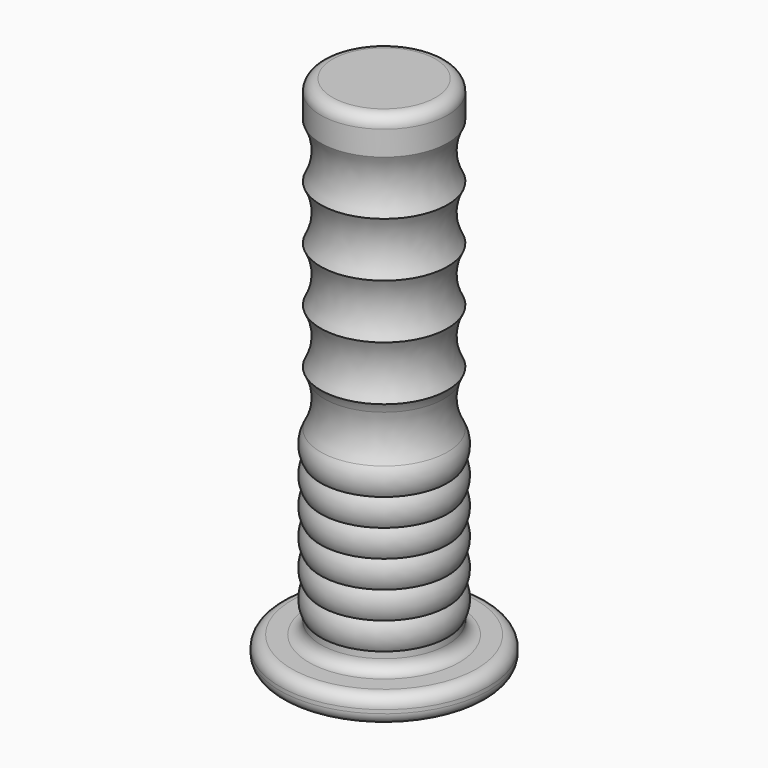
from build123d import *

# Parameters (mm, degrees)
F1_R      = 7
F2_DEPTH  = 25
F3_R      = 1.75
F4_DEPTH  = 25
F9_R      = 7
F9_R_2    = 1.75
F10_DEPTH = 4
F11_R     = 11.5094612718
F11_R_2   = 1.75
F12_DEPTH = 3
F13_R     = 1.3


with BuildPart() as f2:
    # F1 (on Top) → F2 (new body, symmetric)
    with BuildSketch(Plane.XY):
        Circle(F1_R)
    extrude(amount=F2_DEPTH, both=True)

    # F3 (on Top) → F4 (cut, symmetric)
    with BuildSketch(Plane.XY):
        Circle(F3_R)
    extrude(amount=F4_DEPTH, both=True, mode=Mode.SUBTRACT)

    # F5 (on Right) → F6 (revolve, cut)
    with BuildSketch(Plane.YZ):
        with BuildLine():
            ThreePointArc((7, 1), (6.7633442198, 0.5092432024), (6.5696445719, 0))
            Line((6.5696445719, 0), (7, 0))
            Line((7, 0), (7, 1))
        make_face()
        with BuildLine():
            ThreePointArc((7, 25), (6.2463330982, 22), (7, 19))
            Line((7, 19), (7, 25))
        make_face()
        with BuildLine():
            ThreePointArc((7, 19), (6.2463330982, 16), (7, 13))
            Line((7, 13), (7, 19))
        make_face()
        with BuildLine():
            ThreePointArc((7, 13), (6.2463330982, 10), (7, 7))
            Line((7, 7), (7, 13))
        make_face()
        with BuildLine():
            ThreePointArc((7, 7), (6.2463330982, 4), (7, 1))
            Line((7, 1), (7, 7))
        make_face()
        with BuildLine():
            Line((7, 0), (6.5696445719, 0))
            ThreePointArc((6.5696445719, 0), (6.2697156583, -2.5443357866), (7, -5))
            Line((7, -5), (7, 0))
        make_face()
    revolve(axis=Axis((0, 0, 13.0615860689), (0, 0, -1)), mode=Mode.SUBTRACT)

    # F7 (on Right) → F8 (revolve)
    with BuildSketch(Plane.YZ):
        with BuildLine():
            Line((7, -5), (7, -8))
            ThreePointArc((7, -8), (7.3987705455, -6.5), (7, -5))
        make_face()
        with BuildLine():
            ThreePointArc((7, -23), (7.3987705455, -21.5), (7, -20))
            Line((7, -20), (7, -23))
        make_face()
        with BuildLine():
            ThreePointArc((7, -20), (7.3987705455, -18.5), (7, -17))
            Line((7, -17), (7, -20))
        make_face()
        with BuildLine():
            ThreePointArc((7, -17), (7.3987705455, -15.5), (7, -14))
            Line((7, -14), (7, -17))
        make_face()
        with BuildLine():
            ThreePointArc((7, -14), (7.3987705455, -12.5), (7, -11))
            Line((7, -11), (7, -14))
        make_face()
        with BuildLine():
            ThreePointArc((7, -11), (7.3987705455, -9.5), (7, -8))
            Line((7, -8), (7, -11))
        make_face()
    revolve(axis=Axis((0, 0, -9.2291207984), (0, 0, -1)))

    # F9 (on face) → F10 (join)
    with BuildSketch(Plane.XY.offset(25)):
        Circle(F9_R)
        Circle(F9_R_2, mode=Mode.SUBTRACT)
        Circle(F9_R)
        Circle(F9_R_2)
    extrude(amount=F10_DEPTH)

    # F11 (on face) → F12 (join)
    with BuildSketch(Plane(origin=(0, 0, -25), x_dir=(1, 0, 0), z_dir=(0, 0, -1))):
        Circle(F11_R)
        Circle(F11_R_2, mode=Mode.SUBTRACT)
    extrude(amount=F12_DEPTH)

    # F13
    f13_edges = [f2.edges().sort_by_distance(p)[0] for p in [
        (-11.509461, 0, -25),
        (-7, 0, -25),
        (-11.509461, 0, -28),
        (-7, 0, 29),
    ]]
    fillet(f13_edges, radius=F13_R)


solid = f2.part
